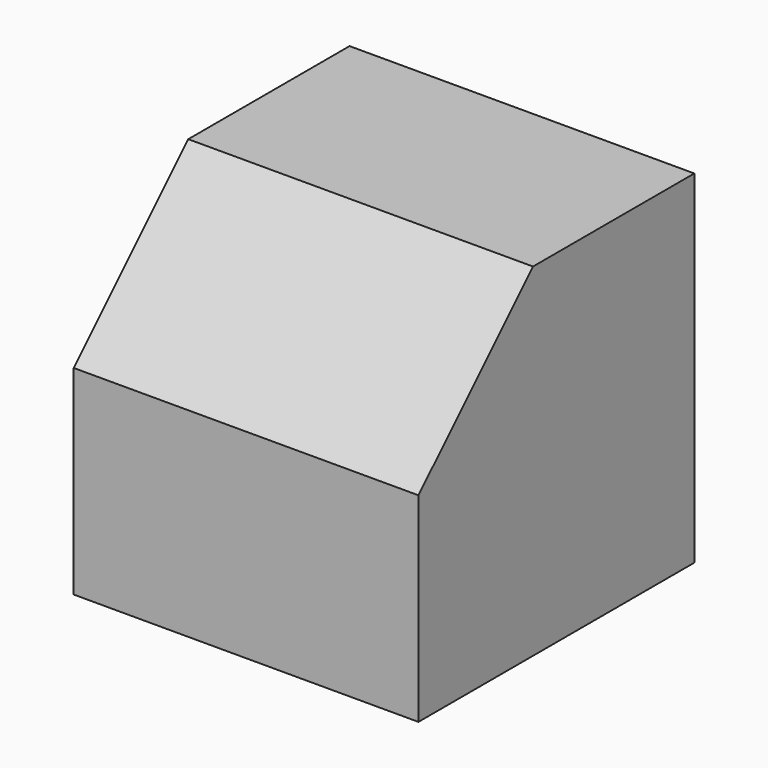
from build123d import *

# Parameters (mm, degrees)
F0_W     = 152.89016
F0_H     = 151.979998
F1_DEPTH = 76.454
F2_SIZE  = 63.5


with BuildPart() as f1:
    # F0 (on Front) → F1 (new body, symmetric)
    with BuildSketch(Plane.XZ):
        Rectangle(F0_W, F0_H)
    extrude(amount=F1_DEPTH, both=True)

    # F2
    f2_edges = [f1.edges().sort_by_distance(p)[0] for p in [
        (0, -76.454, 75.989999),
    ]]
    chamfer(f2_edges, length=F2_SIZE)


solid = f1.part
